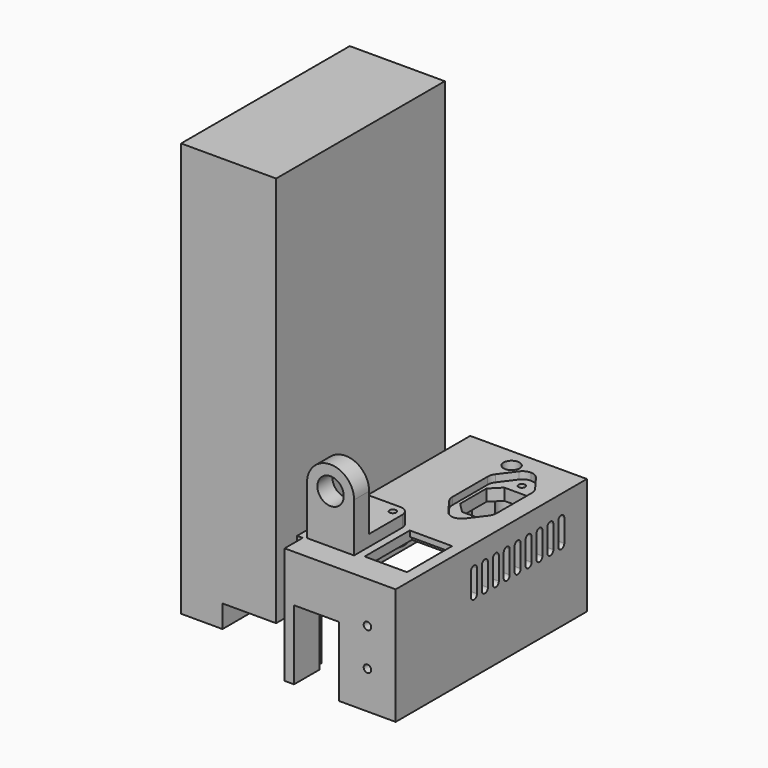
from build123d import *

# Parameters (mm, degrees)
F3_R      = 1.75
F3_W      = 22.5
F3_H      = 30
F4_DEPTH  = 5
F5_W      = 22.5
F5_H      = 1.5
F6_DEPTH  = 2
F7_R      = 2
F8_DEPTH  = 5
F10_DEPTH = 57
F11_R     = 2
F12_DEPTH = 62
F14_DEPTH = 3.8
F15_R     = 1.75
F16_DEPTH = 25
F17_R     = 1.75
F18_DEPTH = 5
F20_START = 9
F19_R     = 4.25
F20_DEPTH = 53.001
F21_DEPTH = 112
F22_W     = 95
F22_H     = 42
F23_DEPTH = 5
F24_R     = 3.5
F25_DEPTH = 3
F26_R     = 6
F26_R_2   = 3.5
F27_DEPTH = 3
F29_DEPTH = 5
F30_R     = 6
F30_R_2   = 3.5
F31_DEPTH = 3
F32_R     = 1.75
F33_DEPTH = 6
F34_R     = 7
F35_DEPTH = 10


with BuildPart() as f4:
    # F3 (on offset) → F4 (new body)
    with BuildSketch(Plane.XY.offset(62)):
        Polygon((55, 12), (55, 0), (114, 0), (114, 127), (52, 127), (52, 12), align=None)
        with Locations((61.5, 45)):
            Circle(F3_R, mode=Mode.SUBTRACT)
        with Locations((76.5, 45)):
            Circle(F3_R, mode=Mode.SUBTRACT)
        with Locations((96.75, 30)):
            Rectangle(F3_W, F3_H, mode=Mode.SUBTRACT)
    extrude(amount=-F4_DEPTH)

    # F5 (on face) → F6 (cut)
    with BuildSketch(Plane(origin=(0, 0, 57), x_dir=(1, 0, 0), z_dir=(0, 0, -1))):
        with Locations((96.75, -45.75)):
            Rectangle(F5_W, F5_H)
        with Locations((96.75, -14.25)):
            Rectangle(F5_W, F5_H)
    extrude(amount=-F6_DEPTH, mode=Mode.SUBTRACT)

    # F7 (on face) → F8 (join)
    with BuildSketch(Plane.XZ):
        Polygon((114, 57), (55, 57), (55, 37), (84, 37), (84, 0), (114, 0), align=None)
        with Locations((99, 20)):
            Circle(F7_R, mode=Mode.SUBTRACT)
        with Locations((99, 40)):
            Circle(F7_R, mode=Mode.SUBTRACT)
    extrude(amount=-F8_DEPTH)

    # F9 (on face) → F10 (join, through all)
    with BuildSketch(Plane(origin=(0, 0, 57), x_dir=(1, 0, 0), z_dir=(0, 0, -1))):
        Polygon((114, -127), (114, -5), (109, -5), (109, -122), (57, -122), (57, -17), (60, -17), (60, 0), (55, 0), (55, -12), (52, -12), (52, -127), align=None)
    extrude(amount=F10_DEPTH)

    # F11 (on Top) → F12 (join, through all)
    with BuildSketch(Plane.XY):
        with BuildLine():
            ThreePointArc((75, 117), (82, 110), (89, 117))
            ThreePointArc((89, 117), (82, 124), (75, 117))
        make_face()
        with Locations((82, 117)):
            Circle(F11_R, mode=Mode.SUBTRACT)
        with BuildLine():
            ThreePointArc((75, 117), (82, 124), (89, 117))
            Line((89, 117), (89, 127))
            Line((89, 127), (75, 127))
            Line((75, 127), (75, 117))
        make_face()
    extrude(amount=F12_DEPTH)

    # F13 (on face) → F14 (cut)
    with BuildSketch(Plane.XY.offset(62)):
        with BuildLine():
            Line((104, 79.4879569653), (104, 91.25))
            Line((104, 91.25), (104, 103.0120430347))
            ThreePointArc((104, 103.0120430347), (103.695520057, 104.8991178294), (102.8129829064, 106.5946671488))
            Line((102.8129829064, 106.5946671488), (96.75, 114.7398233698))
            ThreePointArc((96.75, 114.7398233698), (94.7678561516, 116.4032118995), (92.25, 117))
            ThreePointArc((92.25, 117), (89.7321438484, 116.4032118995), (87.75, 114.7398233698))
            Line((87.75, 114.7398233698), (81.6870170936, 106.5946671488))
            ThreePointArc((81.6870170936, 106.5946671488), (80.804479943, 104.8991178294), (80.5, 103.0120430347))
            Line((80.5, 103.0120430347), (80.5, 91.25))
            Line((80.5, 91.25), (80.5, 79.4879569653))
            ThreePointArc((80.5, 79.4879569653), (80.804479943, 77.6008821706), (81.6870170936, 75.9053328512))
            Line((81.6870170936, 75.9053328512), (87.75, 67.7601766302))
            ThreePointArc((87.75, 67.7601766302), (89.7321438484, 66.0967881005), (92.25, 65.5))
            ThreePointArc((92.25, 65.5), (94.7678561516, 66.0967881005), (96.75, 67.7601766302))
            Line((96.75, 67.7601766302), (102.8129829064, 75.9053328512))
            ThreePointArc((102.8129829064, 75.9053328512), (103.695520057, 77.6008821706), (104, 79.4879569653))
        make_face()
    extrude(amount=-F14_DEPTH, mode=Mode.SUBTRACT)

    # F15 (on face) → F16 (cut)
    with BuildSketch(Plane.XY.offset(58.2)):
        with BuildLine():
            Line((102.25, 79.25), (102.25, 91.25))
            Line((102.25, 91.25), (102.25, 103.25))
            ThreePointArc((102.25, 103.25), (101.6642135624, 104.6642135624), (100.25, 105.25))
            Line((100.25, 105.25), (87.5, 105.25))
            Line((87.5, 105.25), (82.25, 100))
            Line((82.25, 100), (82.25, 91.25))
            Line((82.25, 91.25), (82.25, 82.5))
            Line((82.25, 82.5), (87.5, 77.25))
            Line((87.5, 77.25), (100.25, 77.25))
            ThreePointArc((100.25, 77.25), (101.6642135624, 77.8357864376), (102.25, 79.25))
        make_face()
        with Locations((92.25, 111)):
            Circle(F15_R)
        with Locations((92.25, 71.5)):
            Circle(F15_R)
    extrude(amount=-F16_DEPTH, mode=Mode.SUBTRACT)

    # F17 (on face) → F18 (join)
    with BuildSketch(Plane(origin=(0, 0, 57), x_dir=(1, 0, 0), z_dir=(0, 0, -1))):
        with BuildLine():
            ThreePointArc((107, -79.4879569653), (106.5432800854, -76.6573447732), (105.2194743596, -74.1140207942))
            Line((105.2194743596, -74.1140207942), (99.1564914532, -65.9688645732))
            ThreePointArc((99.1564914532, -65.9688645732), (96.1143448869, -63.4159359812), (92.25, -62.5))
            ThreePointArc((92.25, -62.5), (88.3856551131, -63.4159359812), (85.3435085468, -65.9688645732))
            Line((85.3435085468, -65.9688645732), (79.2805256404, -74.1140207942))
            ThreePointArc((79.2805256404, -74.1140207942), (77.9567199146, -76.6573447732), (77.5, -79.4879569653))
            Line((77.5, -79.4879569653), (77.5, -89.5))
            Line((77.5, -89.5), (77.5, -103.0120430347))
            ThreePointArc((77.5, -103.0120430347), (77.9567199146, -105.8426552268), (79.2805256404, -108.3859792058))
            Line((79.2805256404, -108.3859792058), (85.3435085468, -116.5311354268))
            ThreePointArc((85.3435085468, -116.5311354268), (88.3856551131, -119.0840640188), (92.25, -120))
            ThreePointArc((92.25, -120), (96.1143448869, -119.0840640188), (99.1564914532, -116.5311354268))
            Line((99.1564914532, -116.5311354268), (105.2194743596, -108.3859792058))
            ThreePointArc((105.2194743596, -108.3859792058), (106.5432800854, -105.8426552268), (107, -103.0120430347))
            Line((107, -103.0120430347), (107, -89.5))
            Line((107, -89.5), (107, -79.4879569653))
        make_face()
        with Locations((92.25, -111)):
            Circle(F17_R, mode=Mode.SUBTRACT)
        with BuildLine():
            ThreePointArc((102.25, -103.25), (101.6642135624, -104.6642135624), (100.25, -105.25))
            Line((100.25, -105.25), (87.5, -105.25))
            Line((87.5, -105.25), (82.25, -100))
            Line((82.25, -100), (82.25, -82.5))
            Line((82.25, -82.5), (87.5, -77.25))
            Line((87.5, -77.25), (100.25, -77.25))
            ThreePointArc((100.25, -77.25), (101.6642135624, -77.8357864376), (102.25, -79.25))
            Line((102.25, -79.25), (102.25, -103.25))
        make_face(mode=Mode.SUBTRACT)
        with Locations((92.25, -71.5)):
            Circle(F17_R, mode=Mode.SUBTRACT)
    extrude(amount=F18_DEPTH)

    # F19 (on Top) → F20 (cut)
    with BuildSketch(Plane.XY.offset(F20_START)):
        with Locations((82, 117)):
            Circle(F19_R)
    extrude(amount=F20_DEPTH, mode=Mode.SUBTRACT)

    # F22 (on face) → F23 (cut, through all)
    with BuildSketch(Plane(origin=(52, 0, 0), x_dir=(0, -1, 0), z_dir=(-1, 0, 0))):
        with Locations((-69.5, 21)):
            Rectangle(F22_W, F22_H)
    extrude(amount=-F23_DEPTH, mode=Mode.SUBTRACT)

    # F24 (on face) → F25 (cut)
    with BuildSketch(Plane(origin=(0, 0, 52), x_dir=(1, 0, 0), z_dir=(0, 0, -1))):
        with Locations((92.25, -71.5)):
            Circle(F24_R)
        with Locations((92.25, -111)):
            Circle(F24_R)
    extrude(amount=-F25_DEPTH, mode=Mode.SUBTRACT)

    # F26 (on face) → F27 (join)
    with BuildSketch(Plane(origin=(0, 0, 57), x_dir=(1, 0, 0), z_dir=(0, 0, -1))):
        with Locations((76.5, -45)):
            Circle(F26_R)
        with Locations((76.5, -45)):
            Circle(F26_R_2, mode=Mode.SUBTRACT)
        with Locations((61.5, -45)):
            Circle(F26_R)
        with Locations((61.5, -45)):
            Circle(F26_R_2, mode=Mode.SUBTRACT)
    extrude(amount=F27_DEPTH)

    # F28 (on face) → F29 (cut, through all)
    with BuildSketch(Plane.YZ.offset(114)):
        with BuildLine():
            ThreePointArc((54, 50), (52, 52), (50, 50))
            Line((50, 50), (50, 38))
            ThreePointArc((50, 38), (52, 36), (54, 38))
            Line((54, 38), (54, 50))
        make_face()
        with BuildLine():
            Line((57.25, 50), (57.25, 38))
            ThreePointArc((57.25, 38), (59.25, 36), (61.25, 38))
            Line((61.25, 38), (61.25, 50))
            ThreePointArc((61.25, 50), (59.25, 52), (57.25, 50))
        make_face()
        with BuildLine():
            Line((64.5, 50), (64.5, 38))
            ThreePointArc((64.5, 38), (66.5, 36), (68.5, 38))
            Line((68.5, 38), (68.5, 50))
            ThreePointArc((68.5, 50), (66.5, 52), (64.5, 50))
        make_face()
        with BuildLine():
            Line((71.75, 50), (71.75, 38))
            ThreePointArc((71.75, 38), (73.75, 36), (75.75, 38))
            Line((75.75, 38), (75.75, 50))
            ThreePointArc((75.75, 50), (73.75, 52), (71.75, 50))
        make_face()
        with BuildLine():
            Line((79, 50), (79, 38))
            ThreePointArc((79, 38), (81, 36), (83, 38))
            Line((83, 38), (83, 50))
            ThreePointArc((83, 50), (81, 52), (79, 50))
        make_face()
        with BuildLine():
            Line((86.25, 50), (86.25, 38))
            ThreePointArc((86.25, 38), (88.25, 36), (90.25, 38))
            Line((90.25, 38), (90.25, 50))
            ThreePointArc((90.25, 50), (88.25, 52), (86.25, 50))
        make_face()
        with BuildLine():
            Line((93.5, 50), (93.5, 38))
            ThreePointArc((93.5, 38), (95.5, 36), (97.5, 38))
            Line((97.5, 38), (97.5, 50))
            ThreePointArc((97.5, 50), (95.5, 52), (93.5, 50))
        make_face()
        with BuildLine():
            Line((100.75, 50), (100.75, 38))
            ThreePointArc((100.75, 38), (102.75, 36), (104.75, 38))
            Line((104.75, 38), (104.75, 50))
            ThreePointArc((104.75, 50), (102.75, 52), (100.75, 50))
        make_face()
        with BuildLine():
            Line((108, 50), (108, 38))
            ThreePointArc((108, 38), (110, 36), (112, 38))
            Line((112, 38), (112, 50))
            ThreePointArc((112, 50), (110, 52), (108, 50))
        make_face()
    extrude(amount=-F29_DEPTH, mode=Mode.SUBTRACT)

    # F30 (on face) → F31 (join)
    with BuildSketch(Plane(origin=(0, 5, 0), x_dir=(-1, 0, 0), z_dir=(0, 1, 0))):
        with Locations((-99, 20)):
            Circle(F30_R)
        with Locations((-99, 20)):
            Circle(F30_R_2, mode=Mode.SUBTRACT)
        with Locations((-99, 40)):
            Circle(F30_R)
        with Locations((-99, 40)):
            Circle(F30_R_2, mode=Mode.SUBTRACT)
    extrude(amount=F31_DEPTH)


with BuildPart() as f21:
    # F0 (on Front) → F21 (new body)
    with BuildSketch(Plane.XZ):
        Polygon((0, 233.5), (0, 13.5), (22, 13.5), (22, 25.5), (50.5, 25.5), (50.5, 233.5), align=None)
    extrude(amount=-F21_DEPTH)


with BuildPart() as f33:
    # F32 (on face) → F33 (new body)
    with BuildSketch(Plane.XY.offset(62)):
        with BuildLine():
            Line((76.5, 50), (61.5, 50))
            ThreePointArc((61.5, 50), (57.9644660941, 48.5355339059), (56.5, 45))
            Line((56.5, 45), (56.5, 13))
            Line((56.5, 13), (81.5, 13))
            Line((81.5, 13), (81.5, 45))
            ThreePointArc((81.5, 45), (80.0355339059, 48.5355339059), (76.5, 50))
        make_face()
        with Locations((61.5, 45)):
            Circle(F32_R, mode=Mode.SUBTRACT)
        with Locations((76.5, 45)):
            Circle(F32_R, mode=Mode.SUBTRACT)
    extrude(amount=F33_DEPTH)

    # F34 (on face) → F35 (join)
    with BuildSketch(Plane.XZ.offset(-13)):
        with BuildLine():
            Line((56.5, 88), (56.5, 68))
            Line((56.5, 68), (81.5, 68))
            Line((81.5, 68), (81.5, 88))
            ThreePointArc((81.5, 88), (69, 100.5), (56.5, 88))
        make_face()
        with Locations((69, 88)):
            Circle(F34_R, mode=Mode.SUBTRACT)
    extrude(amount=-F35_DEPTH)


solid = Compound([f4.part, f21.part, f33.part])
